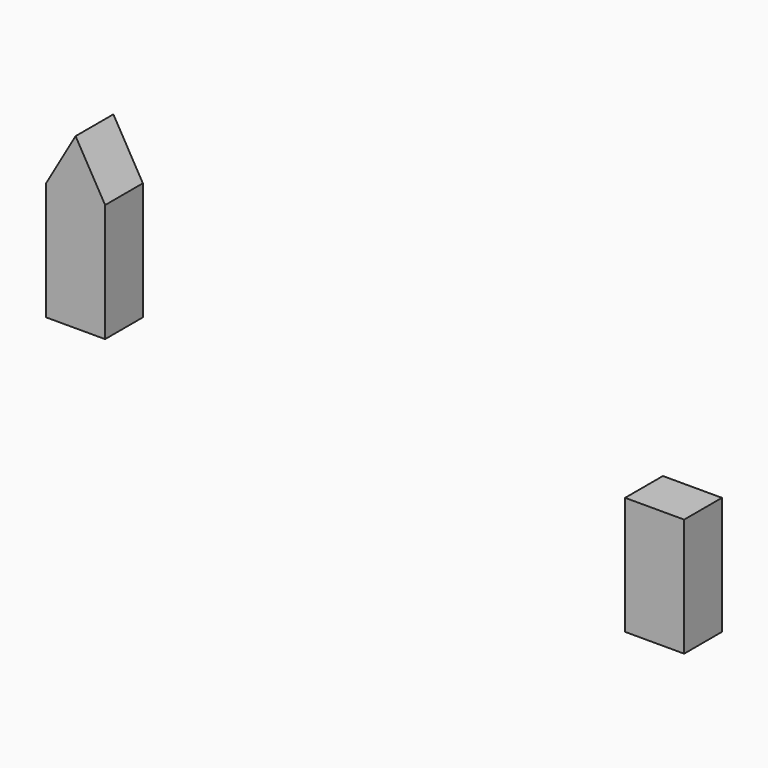
from build123d import *

# Parameters (mm, degrees)
F0_W     = 50
F0_H     = 100
F1_DEPTH = 40
F2_W     = 50
F2_H     = 100
F3_DEPTH = 40


with BuildPart() as f1:
    # F0 (on Front) → F1 (new body)
    with BuildSketch(Plane.XZ):
        with Locations((-306.628928, 3.766021)):
            Rectangle(F0_W, F0_H)
        Polygon((-306.628928, 97.067291), (-331.628928, 53.766021), (-281.628928, 53.766021), align=None)
    extrude(amount=F1_DEPTH)


with BuildPart() as f3:
    # F2 (on Front) → F3 (new body)
    with BuildSketch(Plane.XZ):
        with Locations((183.896723, -71.285395)):
            Rectangle(F2_W, F2_H)
    extrude(amount=F3_DEPTH)


solid = Compound([f1.part, f3.part])
